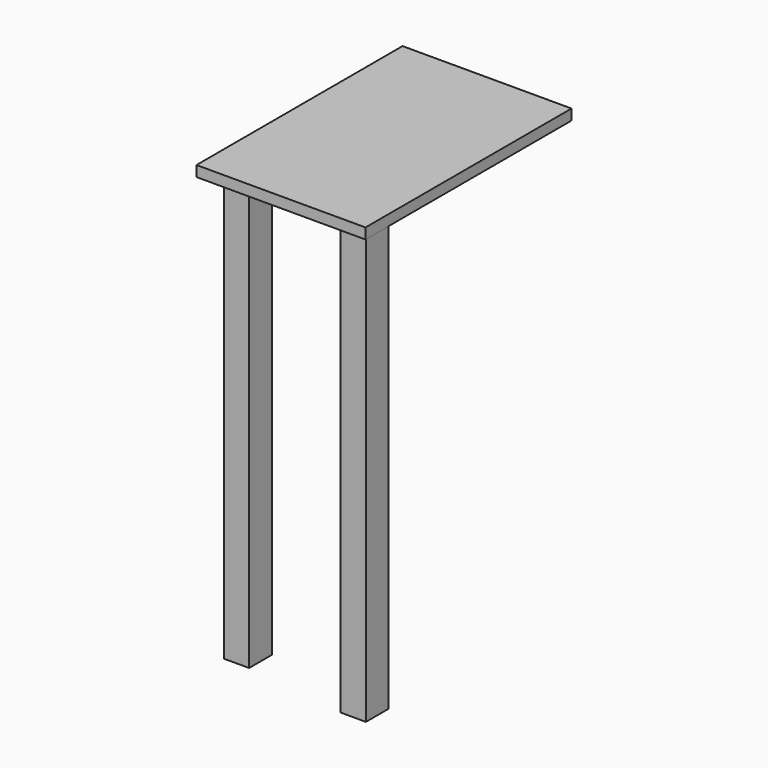
from build123d import *

# Parameters (mm, degrees)
F0_W     = 302.65603
F0_H     = 461.279019
F1_DEPTH = 19.05
F2_W     = 45.347571
F2_H     = 50.879955
F2_W_2   = 45.347572
F2_H_2   = 50.879956
F3_DEPTH = 762


with BuildPart() as f1:
    # F0 (on Top) → F1 (new body)
    with BuildSketch(Plane.XY):
        with Locations((102.108258, 177.309223)):
            Rectangle(F0_W, F0_H)
    extrude(amount=F1_DEPTH)

    # F2 (on Top) → F3 (join)
    with BuildSketch(Plane.XY):
        with Locations((229.558259, -25.439977)):
            Rectangle(F2_W, F2_H)
        with Locations((229.558259, -25.439977)):
            Rectangle(F2_W, F2_H)
        Rectangle(F2_W_2, F2_H_2)
    extrude(amount=-F3_DEPTH)


solid = f1.part
